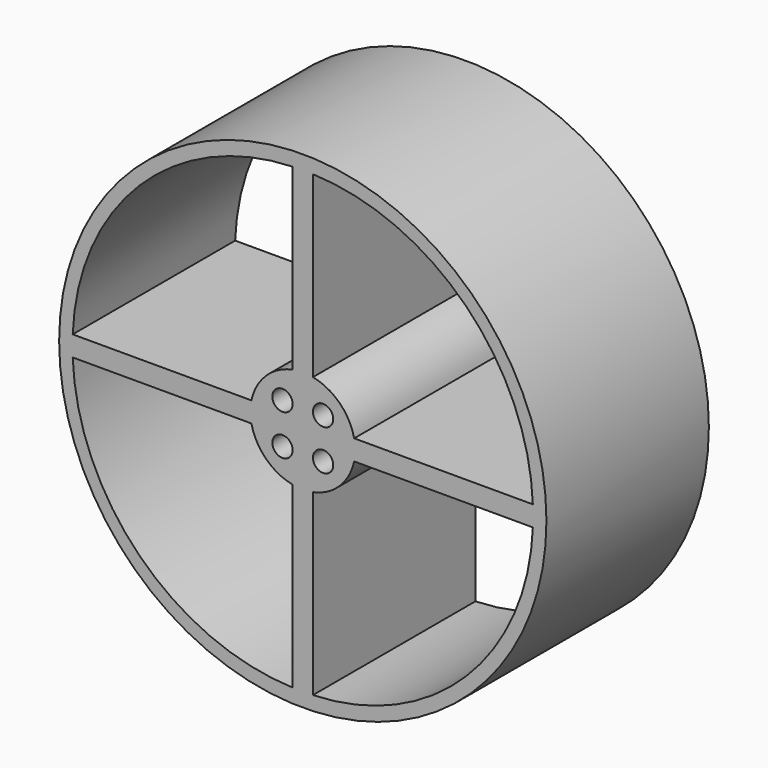
from build123d import *

# Parameters (mm, degrees)
F0_R     = 60
F1_DEPTH = 25
F4_DEPTH = 50.6
F5_DEPTH = 50
F6_D     = 5


with BuildPart() as f1:
    # F0 (on Front) → F1 (new body, symmetric)
    with BuildSketch(Plane.XZ):
        Circle(F0_R)
    extrude(amount=F1_DEPTH, both=True)

    # F3 (on offset) → F4 (cut, symmetric)
    with BuildSketch(Plane.XZ.offset(25)):
        with BuildLine():
            ThreePointArc((-12.654677, 2.5), (-9.062737, 8.995834), (-2.5, 12.46403))
            Line((-2.5, 12.46403), (-2.5, 56.46403))
            ThreePointArc((-2.5, 56.46403), (-40.195659, 40.137848), (-56.654677, 2.5))
            Line((-56.654677, 2.5), (-12.654677, 2.5))
        make_face()
    extrude(amount=F4_DEPTH, both=True, mode=Mode.SUBTRACT)

    # F3 (on offset) → F5 (cut, symmetric)
    with BuildSketch(Plane.XZ.offset(25)):
        with BuildLine():
            Line((-12.654677, -2.5), (-56.654677, -2.5))
            ThreePointArc((-56.654677, -2.5), (-40.195659, -40.137848), (-2.5, -56.46403))
            Line((-2.5, -56.46403), (-2.5, -12.46403))
            ThreePointArc((-2.5, -12.46403), (-9.062737, -8.995834), (-12.654677, -2.5))
        make_face()
        with BuildLine():
            ThreePointArc((12.654677, -2.5), (9.062737, -8.995834), (2.5, -12.46403))
            Line((2.5, -12.46403), (2.5, -56.46403))
            ThreePointArc((2.5, -56.46403), (40.195659, -40.137848), (56.654677, -2.5))
            Line((56.654677, -2.5), (12.654677, -2.5))
        make_face()
        with BuildLine():
            ThreePointArc((56.654677, 2.5), (40.195659, 40.137848), (2.5, 56.46403))
            Line((2.5, 56.46403), (2.5, 12.46403))
            ThreePointArc((2.5, 12.46403), (9.062737, 8.995834), (12.654677, 2.5))
            Line((12.654677, 2.5), (56.654677, 2.5))
        make_face()
    extrude(amount=F5_DEPTH, both=True, mode=Mode.SUBTRACT)

    # F6 (through all)
    with Locations(Plane.XZ.offset(25)):
        with Locations((-5, -5), (-5, 5), (5, 5), (5, -5)):
            Hole(F6_D / 2)


solid = f1.part
